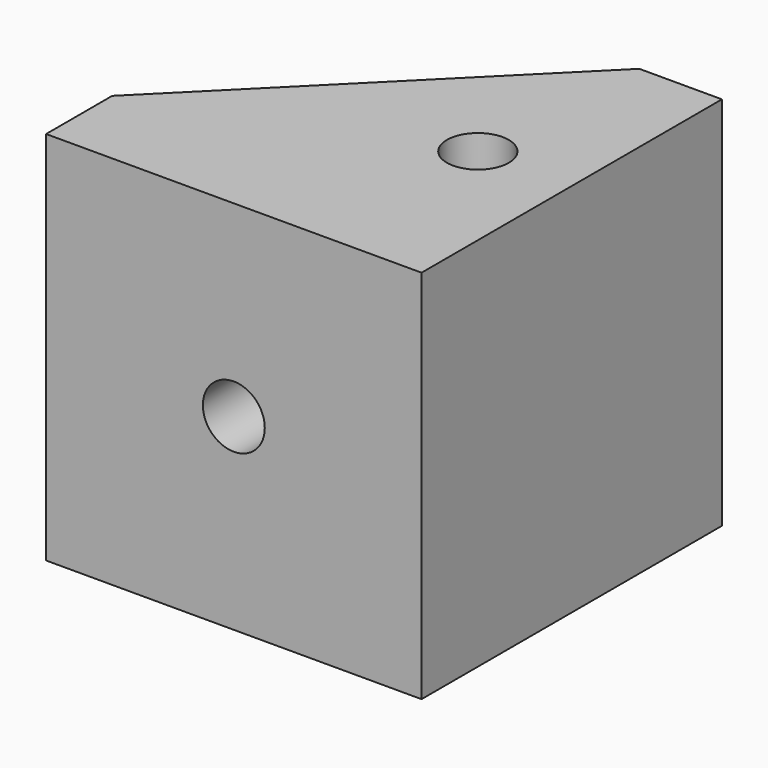
from build123d import *

# Parameters (mm, degrees)
PAD_DEPTH     = 20
SKETCH001_R   = 1.65
HOLE_DEPTH    = 10
HOLE_TIPS_R   = 1.65
SKETCH002_R   = 1.65
HOLE001_DEPTH = 20.001


with BuildPart() as part:
    # Sketch → Pad (new body)
    with BuildSketch(Plane.XY):
        Polygon((-65, 0), (-85, 0), (-85, 4.4), (-69.4, 20), (-65, 20), align=None)
    extrude(amount=PAD_DEPTH)

    # Sketch001 (on Face1 of Pad) → Hole (cut)
    with BuildSketch(Plane.XZ):
        with Locations((-75, 10)):
            Circle(SKETCH001_R)
    extrude(amount=-HOLE_DEPTH, mode=Mode.SUBTRACT)

    # Hole tips → Hole tip 1 section 0
    with BuildSketch(Plane.XZ.offset(-10), mode=Mode.PRIVATE) as hole_tip_1_s0:
        with Locations((-75, 10)):
            Circle(HOLE_TIPS_R)
    loft([hole_tip_1_s0.sketch, Vertex(-75, 10.99142, 10)], mode=Mode.SUBTRACT)

    # Sketch002 (on Face4 of Hole) → Hole001 (cut, through all)
    with BuildSketch(Plane.XY.offset(20)):
        with Locations((-70, 10)):
            Circle(SKETCH002_R)
    extrude(amount=-HOLE001_DEPTH, mode=Mode.SUBTRACT)


solid = part.part
